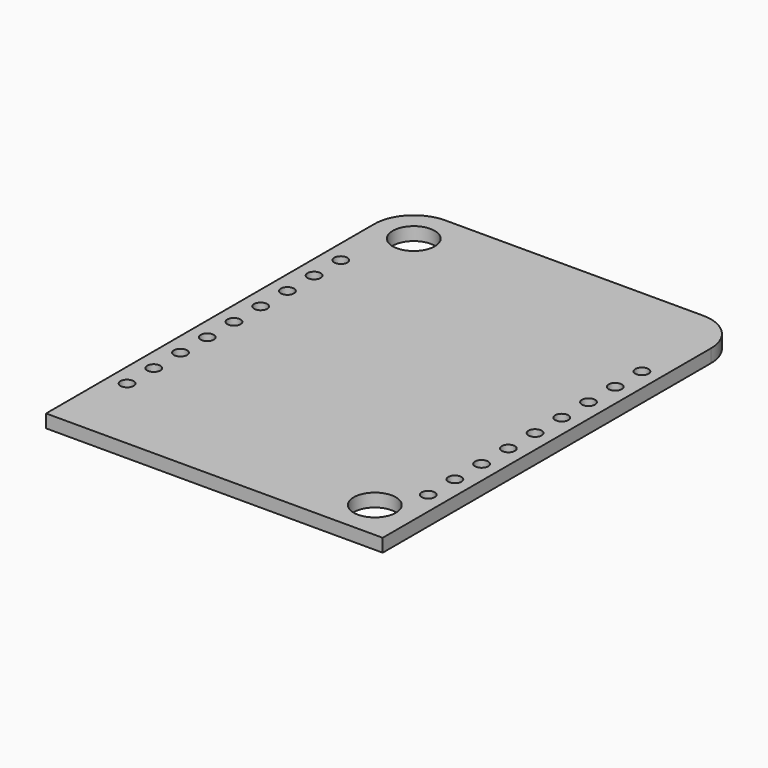
from build123d import *

# Parameters (mm, degrees)
SKETCH_R                             = 1.6
PAD_DEPTH                            = 1
SKETCH015_R                          = 0.5
POCKET002_DEPTH                      = 86.464442
POCKET002_DEPTH_BACK                 = 85.464442
SKETCH015_LINEARPATTERN_2_R          = 0.5
POCKET002_LINEARPATTERN_2_DEPTH      = 86.464442
POCKET002_LINEARPATTERN_2_DEPTH_BACK = 85.464442
SKETCH015_LINEARPATTERN_3_R          = 0.5
POCKET002_LINEARPATTERN_3_DEPTH      = 86.464442
POCKET002_LINEARPATTERN_3_DEPTH_BACK = 85.464442
SKETCH015_LINEARPATTERN_4_R          = 0.5
POCKET002_LINEARPATTERN_4_DEPTH      = 86.464442
POCKET002_LINEARPATTERN_4_DEPTH_BACK = 85.464442
SKETCH015_LINEARPATTERN_5_R          = 0.5
POCKET002_LINEARPATTERN_5_DEPTH      = 86.464442
POCKET002_LINEARPATTERN_5_DEPTH_BACK = 85.464442
SKETCH015_LINEARPATTERN_6_R          = 0.5
POCKET002_LINEARPATTERN_6_DEPTH      = 86.464442
POCKET002_LINEARPATTERN_6_DEPTH_BACK = 85.464442
SKETCH015_LINEARPATTERN_7_R          = 0.5
POCKET002_LINEARPATTERN_7_DEPTH      = 86.464442
POCKET002_LINEARPATTERN_7_DEPTH_BACK = 85.464442
SKETCH015_LINEARPATTERN_8_R          = 0.5
POCKET002_LINEARPATTERN_8_DEPTH      = 86.464442
POCKET002_LINEARPATTERN_8_DEPTH_BACK = 85.464442
SKETCH015_LINEARPATTERN_9_R          = 0.5
POCKET002_LINEARPATTERN_9_DEPTH      = 86.464442
POCKET002_LINEARPATTERN_9_DEPTH_BACK = 85.464442


with BuildPart() as part:
    # Sketch → Pad (new body)
    with BuildSketch(Plane.XY):
        with BuildLine():
            Line((9.8, 17.1), (-9.8, 17.1))
            ThreePointArc((-9.8, 17.1), (-11.92132, 16.22132), (-12.8, 14.1))
            Line((-12.8, 14.1), (-12.8, -17.1))
            Line((-12.8, -17.1), (12.8, -17.1))
            Line((12.8, -17.1), (12.8, 14.1))
            ThreePointArc((12.8, 14.1), (11.92132, 16.22132), (9.8, 17.1))
        make_face()
        with Locations((-9.8, 14.1)):
            Circle(SKETCH_R, mode=Mode.SUBTRACT)
        with Locations((9.8, -14.1)):
            Circle(SKETCH_R, mode=Mode.SUBTRACT)
    extrude(amount=-PAD_DEPTH)

    # Sketch015 → Pocket002 (cut, two sides)
    with BuildSketch(Plane.XY) as pocket002_sk:
        with Locations((11.45, -11.09)):
            Circle(SKETCH015_R)
    pocket002 = extrude(amount=-POCKET002_DEPTH, mode=Mode.SUBTRACT) + extrude(pocket002_sk.sketch, amount=POCKET002_DEPTH_BACK, mode=Mode.SUBTRACT)

    # Sketch015 LinearPattern 2 → Pocket002 LinearPattern 2 (cut, two sides)
    with BuildSketch(Plane(origin=(0, 2.54, 0), x_dir=(1, 0, 0), z_dir=(0, 0, 1))) as pocket002_linearpattern_2_sk:
        with Locations((11.45, -11.09)):
            Circle(SKETCH015_LINEARPATTERN_2_R)
    pocket002_linearpattern_2 = extrude(amount=-POCKET002_LINEARPATTERN_2_DEPTH, mode=Mode.SUBTRACT) + extrude(pocket002_linearpattern_2_sk.sketch, amount=POCKET002_LINEARPATTERN_2_DEPTH_BACK, mode=Mode.SUBTRACT)

    # Sketch015 LinearPattern 3 → Pocket002 LinearPattern 3 (cut, two sides)
    with BuildSketch(Plane(origin=(0, 5.08, 0), x_dir=(1, 0, 0), z_dir=(0, 0, 1))) as pocket002_linearpattern_3_sk:
        with Locations((11.45, -11.09)):
            Circle(SKETCH015_LINEARPATTERN_3_R)
    pocket002_linearpattern_3 = extrude(amount=-POCKET002_LINEARPATTERN_3_DEPTH, mode=Mode.SUBTRACT) + extrude(pocket002_linearpattern_3_sk.sketch, amount=POCKET002_LINEARPATTERN_3_DEPTH_BACK, mode=Mode.SUBTRACT)

    # Sketch015 LinearPattern 4 → Pocket002 LinearPattern 4 (cut, two sides)
    with BuildSketch(Plane(origin=(0, 7.62, 0), x_dir=(1, 0, 0), z_dir=(0, 0, 1))) as pocket002_linearpattern_4_sk:
        with Locations((11.45, -11.09)):
            Circle(SKETCH015_LINEARPATTERN_4_R)
    pocket002_linearpattern_4 = extrude(amount=-POCKET002_LINEARPATTERN_4_DEPTH, mode=Mode.SUBTRACT) + extrude(pocket002_linearpattern_4_sk.sketch, amount=POCKET002_LINEARPATTERN_4_DEPTH_BACK, mode=Mode.SUBTRACT)

    # Sketch015 LinearPattern 5 → Pocket002 LinearPattern 5 (cut, two sides)
    with BuildSketch(Plane(origin=(0, 10.16, 0), x_dir=(1, 0, 0), z_dir=(0, 0, 1))) as pocket002_linearpattern_5_sk:
        with Locations((11.45, -11.09)):
            Circle(SKETCH015_LINEARPATTERN_5_R)
    pocket002_linearpattern_5 = extrude(amount=-POCKET002_LINEARPATTERN_5_DEPTH, mode=Mode.SUBTRACT) + extrude(pocket002_linearpattern_5_sk.sketch, amount=POCKET002_LINEARPATTERN_5_DEPTH_BACK, mode=Mode.SUBTRACT)

    # Sketch015 LinearPattern 6 → Pocket002 LinearPattern 6 (cut, two sides)
    with BuildSketch(Plane(origin=(0, 12.7, 0), x_dir=(1, 0, 0), z_dir=(0, 0, 1))) as pocket002_linearpattern_6_sk:
        with Locations((11.45, -11.09)):
            Circle(SKETCH015_LINEARPATTERN_6_R)
    pocket002_linearpattern_6 = extrude(amount=-POCKET002_LINEARPATTERN_6_DEPTH, mode=Mode.SUBTRACT) + extrude(pocket002_linearpattern_6_sk.sketch, amount=POCKET002_LINEARPATTERN_6_DEPTH_BACK, mode=Mode.SUBTRACT)

    # Sketch015 LinearPattern 7 → Pocket002 LinearPattern 7 (cut, two sides)
    with BuildSketch(Plane(origin=(0, 15.24, 0), x_dir=(1, 0, 0), z_dir=(0, 0, 1))) as pocket002_linearpattern_7_sk:
        with Locations((11.45, -11.09)):
            Circle(SKETCH015_LINEARPATTERN_7_R)
    pocket002_linearpattern_7 = extrude(amount=-POCKET002_LINEARPATTERN_7_DEPTH, mode=Mode.SUBTRACT) + extrude(pocket002_linearpattern_7_sk.sketch, amount=POCKET002_LINEARPATTERN_7_DEPTH_BACK, mode=Mode.SUBTRACT)

    # Sketch015 LinearPattern 8 → Pocket002 LinearPattern 8 (cut, two sides)
    with BuildSketch(Plane(origin=(0, 17.78, 0), x_dir=(1, 0, 0), z_dir=(0, 0, 1))) as pocket002_linearpattern_8_sk:
        with Locations((11.45, -11.09)):
            Circle(SKETCH015_LINEARPATTERN_8_R)
    pocket002_linearpattern_8 = extrude(amount=-POCKET002_LINEARPATTERN_8_DEPTH, mode=Mode.SUBTRACT) + extrude(pocket002_linearpattern_8_sk.sketch, amount=POCKET002_LINEARPATTERN_8_DEPTH_BACK, mode=Mode.SUBTRACT)

    # Sketch015 LinearPattern 9 → Pocket002 LinearPattern 9 (cut, two sides)
    with BuildSketch(Plane(origin=(0, 20.32, 0), x_dir=(1, 0, 0), z_dir=(0, 0, 1))) as pocket002_linearpattern_9_sk:
        with Locations((11.45, -11.09)):
            Circle(SKETCH015_LINEARPATTERN_9_R)
    pocket002_linearpattern_9 = extrude(amount=-POCKET002_LINEARPATTERN_9_DEPTH, mode=Mode.SUBTRACT) + extrude(pocket002_linearpattern_9_sk.sketch, amount=POCKET002_LINEARPATTERN_9_DEPTH_BACK, mode=Mode.SUBTRACT)

    # Mirrored004: Pocket002, Pocket002 LinearPattern 2, Pocket002 LinearPattern 3, Pocket002 LinearPattern 4, Pocket002 LinearPattern 5, Pocket002 LinearPattern 6, Pocket002 LinearPattern 7, Pocket002 LinearPattern 8, Pocket002 LinearPattern 9 across YZ
    add(pocket002.mirror(Plane.YZ), mode=Mode.SUBTRACT)
    add(pocket002_linearpattern_2.mirror(Plane.YZ), mode=Mode.SUBTRACT)
    add(pocket002_linearpattern_3.mirror(Plane.YZ), mode=Mode.SUBTRACT)
    add(pocket002_linearpattern_4.mirror(Plane.YZ), mode=Mode.SUBTRACT)
    add(pocket002_linearpattern_5.mirror(Plane.YZ), mode=Mode.SUBTRACT)
    add(pocket002_linearpattern_6.mirror(Plane.YZ), mode=Mode.SUBTRACT)
    add(pocket002_linearpattern_7.mirror(Plane.YZ), mode=Mode.SUBTRACT)
    add(pocket002_linearpattern_8.mirror(Plane.YZ), mode=Mode.SUBTRACT)
    add(pocket002_linearpattern_9.mirror(Plane.YZ), mode=Mode.SUBTRACT)


with BuildPart() as part_1:
    # Body placement: moved
    add(part.part.moved(Location((0, 17.1, 0))))


solid = part_1.part
